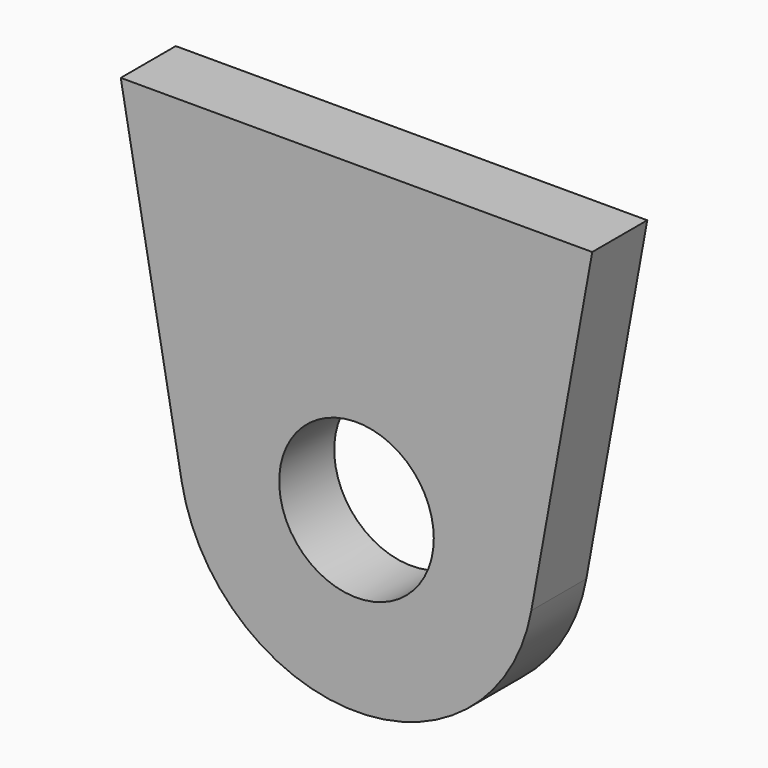
from build123d import *

# Parameters (mm, degrees)
F0_R     = 3.5687
F1_DEPTH = 1.5875


with BuildPart() as f1:
    # F0 (on Front) → F1 (new body, symmetric)
    with BuildSketch(Plane.XZ):
        with BuildLine():
            Line((-10.8839, 14.0208), (-8.0722359001, -1.4655733392))
            ThreePointArc((-8.0722359001, -1.4655733392), (0, -8.2042), (8.0722359001, -1.4655733392))
            Line((8.0722359001, -1.4655733392), (10.8839, 14.0208))
            Line((10.8839, 14.0208), (-10.8839, 14.0208))
        make_face()
        Circle(F0_R, mode=Mode.SUBTRACT)
    extrude(amount=F1_DEPTH, both=True)


solid = f1.part
